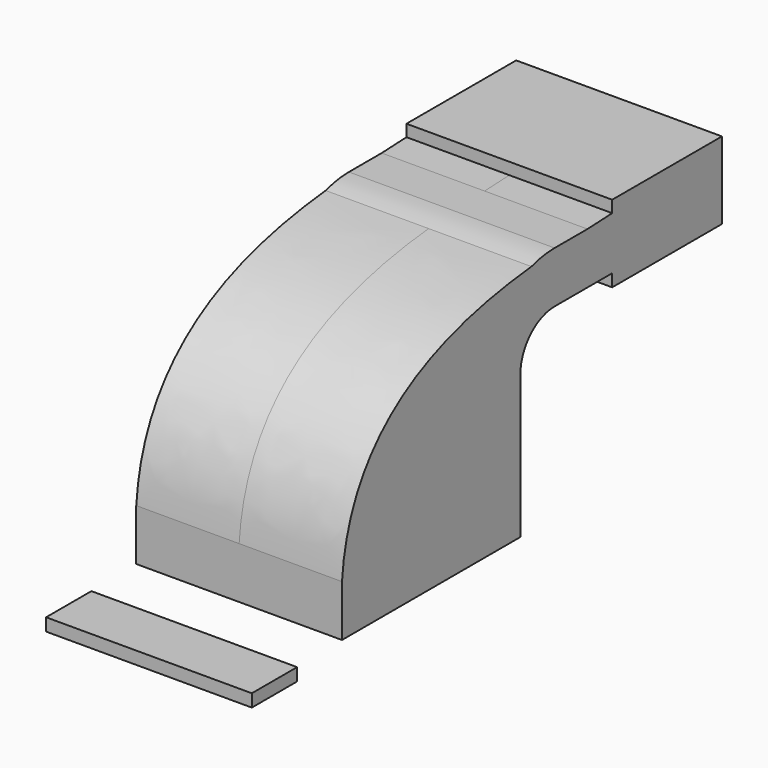
from build123d import *

# Parameters (mm, degrees)
F0_W     = 20.9650807514
F0_H     = 4.6797038421
F1_DEPTH = 38.1


with BuildPart() as f1:
    # F0 (on Right) → F1 (new body, symmetric)
    with BuildSketch(Plane.YZ):
        with Locations((-72.5354308129, -12.2608271002)):
            Rectangle(F0_W, F0_H)
    extrude(amount=F1_DEPTH, both=True)


with BuildPart() as f1b:
    # F0 (on Right) → F1, piece 2 (new body, symmetric)
    with BuildSketch(Plane.YZ):
        with BuildLine():
            ThreePointArc((57.15, 78.2756317613), (51.7249304378, 77.8517077626), (46.4315612153, 76.590227051))
            add(Edge.make_bspline(
                [(46.4315612153, 76.590227051), (56.0242028138, 77.5513736951), (64.9725208117, 77.938393637), (72.3691319327, 78.2756317613)],
                knots=[0.5175034916, 0.5175034916, 0.5175034916, 0.5175034916, 0.651470182, 0.651470182, 0.651470182, 0.651470182], degree=3))
            Line((72.3691319327, 78.2756317613), (57.15, 78.2756317613))
        make_face()
        Polygon((22.225, 9.525), (-41.275, 9.525), (-41.275, -9.525), (41.275, -9.525), (41.275, 9.525), align=None)
        with BuildLine():
            Line((110.3845917368, 78.2756317613), (83.8149540782, 78.2756317613))
            Line((83.8149540782, 78.2756317613), (83.8149540782, 59.2256317613))
            Line((83.8149540782, 59.2256317613), (83.8149540782, 54.6044126987))
            Line((83.8149540782, 54.6044126987), (134.6149540782, 54.6044126987))
            Line((134.6149540782, 54.6044126987), (134.6149540782, 83.1794126987))
            Line((134.6149540782, 83.1794126987), (83.8149540782, 83.1794126987))
            Line((83.8149540782, 83.1794126987), (83.8149540782, 78.7946925131))
            add(Edge.make_bspline(
                [(83.8149540782, 78.7946925131), (95.578038338, 79.2966811567), (102.5917288533, 79.3769936682), (110.3845917368, 78.2756317613)],
                knots=[0.729255413, 0.729255413, 0.729255413, 0.729255413, 1, 1, 1, 1], degree=3))
        make_face()
        with BuildLine():
            add(Edge.make_bspline(
                [(72.3691319327, 78.2756317613), (76.6638346111, 78.4714427148), (80.4354064556, 78.6504705991), (83.8149540782, 78.7946925131)],
                knots=[0.651470182, 0.651470182, 0.651470182, 0.651470182, 0.729255413, 0.729255413, 0.729255413, 0.729255413], degree=3))
            Line((72.3691319327, 78.2756317613), (83.8149540782, 78.2756317613))
            Line((83.8149540782, 78.2756317613), (83.8149540782, 78.7946925131))
        make_face()
        with BuildLine():
            Line((83.8149540782, 78.7946925131), (83.8149540782, 78.2756317613))
            Line((83.8149540782, 78.2756317613), (110.3845917368, 78.2756317613))
            add(Edge.make_bspline(
                [(83.8149540782, 78.7946925131), (95.578038338, 79.2966811567), (102.5917288533, 79.3769936682), (110.3845917368, 78.2756317613)],
                knots=[0.729255413, 0.729255413, 0.729255413, 0.729255413, 1, 1, 1, 1], degree=3))
        make_face()
        with BuildLine():
            Line((22.225, 43.3506317613), (22.225, 9.525))
            Line((22.225, 9.525), (41.275, 9.525))
            Line((41.275, 9.525), (41.275, 43.3506317613))
            ThreePointArc((41.275, 43.3506317613), (45.9246798487, 54.5759519127), (57.15, 59.2256317613))
            Line((57.15, 59.2256317613), (83.8149540782, 59.2256317613))
            Line((83.8149540782, 59.2256317613), (83.8149540782, 78.2756317613))
            Line((83.8149540782, 78.2756317613), (72.3691319327, 78.2756317613))
            add(Edge.make_bspline(
                [(46.4315612153, 76.590227051), (56.0242028138, 77.5513736951), (64.9725208117, 77.938393637), (72.3691319327, 78.2756317613)],
                knots=[0.5175034916, 0.5175034916, 0.5175034916, 0.5175034916, 0.651470182, 0.651470182, 0.651470182, 0.651470182], degree=3))
            ThreePointArc((46.4315612153, 76.590227051), (28.9179517254, 63.9104730842), (22.225, 43.3506317613))
        make_face()
        with BuildLine():
            add(Edge.make_bspline(
                [(-41.275, 9.525), (-37.2945064032, 60.597314608), (9.3758908363, 72.8773881144), (46.4315612153, 76.590227051)],
                knots=[0, 0, 0, 0, 0.5175034916, 0.5175034916, 0.5175034916, 0.5175034916], degree=3))
            Line((-41.275, 9.525), (22.225, 9.525))
            Line((22.225, 9.525), (22.225, 43.3506317613))
            ThreePointArc((22.225, 43.3506317613), (28.9179517254, 63.9104730842), (46.4315612153, 76.590227051))
        make_face()
        with BuildLine():
            add(Edge.make_bspline(
                [(-41.275, 9.525), (-37.2945064032, 60.597314608), (9.3758908363, 72.8773881144), (46.4315612153, 76.590227051)],
                knots=[0, 0, 0, 0, 0.5175034916, 0.5175034916, 0.5175034916, 0.5175034916], degree=3))
            Line((-41.275, 9.525), (22.225, 9.525))
            Line((22.225, 9.525), (22.225, 43.3506317613))
            ThreePointArc((22.225, 43.3506317613), (28.9179517254, 63.9104730842), (46.4315612153, 76.590227051))
        make_face()
    extrude(amount=F1_DEPTH, both=True)


solid = Compound([f1.part, f1b.part])
